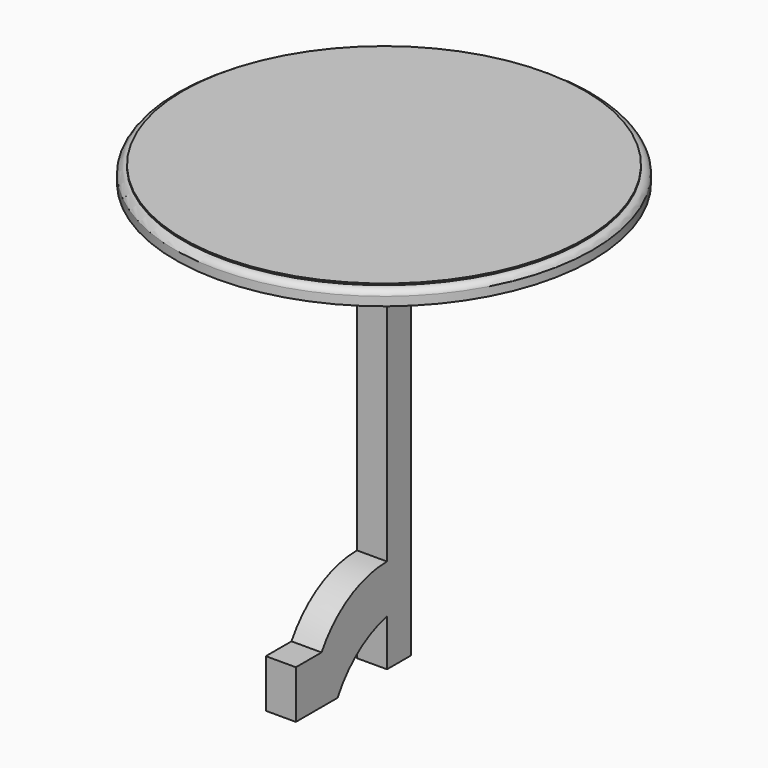
from build123d import *

# Parameters (mm, degrees)
F0_R     = 330.2
F1_DEPTH = 25.4
F4_W     = 47.625
F4_H     = 47.625
F5_DEPTH = 660.4
F7_DEPTH = 47.625


with BuildPart() as f1:
    # F0 (on Top) → F1 (new body)
    with BuildSketch(Plane.XY):
        Circle(F0_R)
    extrude(amount=F1_DEPTH)

    # F2 (on Front) → F3 (revolve, cut)
    with BuildSketch(Plane.XZ):
        with BuildLine():
            Line((-317.797519, 22.86), (-317.797519, 25.4))
            Line((-317.797519, 25.4), (-330.497519, 25.4))
            Line((-330.497519, 25.4), (-330.497519, 12.7))
            ThreePointArc((-330.497519, 12.7), (-325.987211, 20.079616), (-317.797519, 22.86))
        make_face()
    revolve(axis=Axis((0, 0, -14.905058), (0, 0, -1)), mode=Mode.SUBTRACT)

    # F4 (on face) → F5 (join)
    with BuildSketch(Plane(origin=(0, 0, 0), x_dir=(1, 0, 0), z_dir=(0, 0, -1))):
        Rectangle(F4_W, F4_H)
    extrude(amount=F5_DEPTH)

    # F6 (on face) → F7 (join)
    with BuildSketch(Plane(origin=(-23.8125, 0, 0), x_dir=(0, -1, 0), z_dir=(-1, 0, 0))):
        with BuildLine():
            Line((204.1525, -584.2), (153.3525, -584.2))
            ThreePointArc((153.3525, -584.2), (98.428054, -529.940923), (23.8125, -510.110108))
            Line((23.8125, -510.110108), (23.8125, -586.310108))
            ThreePointArc((23.8125, -586.310108), (80.612019, -612.922013), (121.6025, -660.4))
            Line((121.6025, -660.4), (204.1525, -660.4))
            Line((204.1525, -660.4), (204.1525, -584.2))
        make_face()
    extrude(amount=-F7_DEPTH)


solid = f1.part
